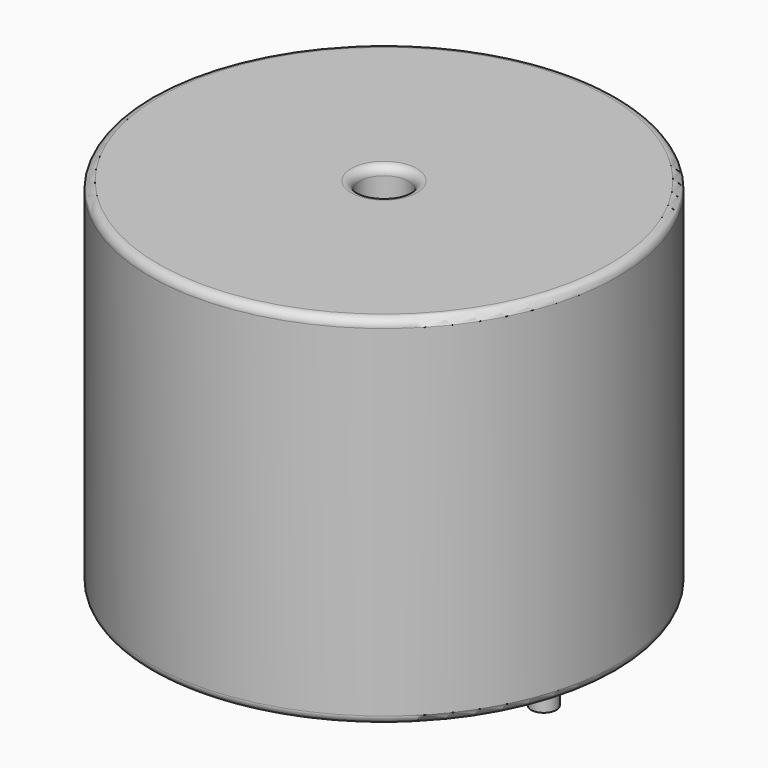
from build123d import *

# Parameters (mm, degrees)
SKETCH001_R       = 0.75
PAD001_DEPTH      = 10.67
PAD001_DEPTH_BACK = 3.5
SKETCH_R          = 13.95
SKETCH_R_2        = 1.46
PAD_DEPTH         = 21.34
FILLET_R          = 0.5


with BuildPart() as pad001:
    # Sketch001 → Pad001 (new body, two sides)
    with BuildSketch(Plane.XY.offset(0.5)) as pad001_sk:
        Circle(SKETCH001_R)
        with Locations((19.05, 0)):
            Circle(SKETCH001_R)
    extrude(amount=PAD001_DEPTH)
    extrude(pad001_sk.sketch, amount=-PAD001_DEPTH_BACK)


with BuildPart() as fillet_body:
    # Sketch → Pad (new body)
    with BuildSketch(Plane.XY.offset(0.1)):
        with Locations((9.525, 0)):
            Circle(SKETCH_R)
        with Locations((9.525, 0)):
            Circle(SKETCH_R_2, mode=Mode.SUBTRACT)
    extrude(amount=PAD_DEPTH)

    # Fillet
    fillet_edges = [fillet_body.edges().sort_by_distance(p)[0] for p in [
        (8.065, 0, 21.44),
        (-4.425, 0, 21.44),
        (-4.425, 0, 0.1),
    ]]
    fillet(fillet_edges, radius=FILLET_R)


solid = Compound([pad001.part, fillet_body.part])
